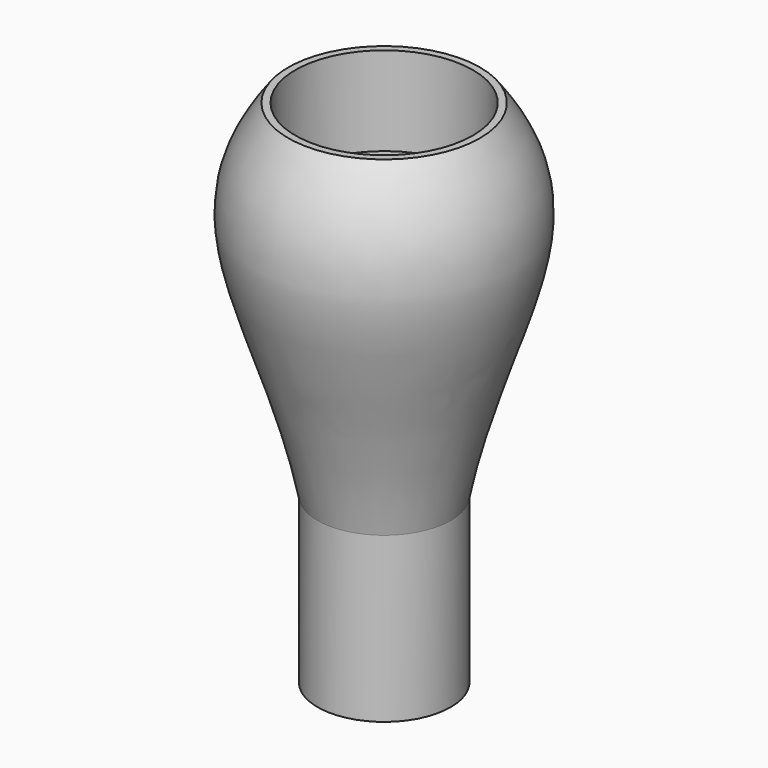
from build123d import *

# Parameters (mm, degrees)
F3_DEPTH = 35


with BuildPart() as f1:
    # F0 (on Front) → F1 (revolve)
    with BuildSketch(Plane.XZ):
        with BuildLine():
            Line((10, 0), (15, 0))
            Line((15, 0), (15, 37))
            add(Edge.make_bspline(
                [(15, 37), (19.0353800747, 58.2166660939), (33.9262575449, 86.7684902948), (28.5537857562, 105.9863269329), (21.6, 115)],
                knots=[0, 0, 0, 0, 0.5797552931, 1, 1, 1, 1], degree=3))
            Line((21.6, 115), (20, 115))
            Line((20, 115), (20, 95))
            Line((20, 95), (0, 95))
            Line((0, 95), (0, 85))
            Line((0, 85), (8, 85))
            Line((8, 85), (8, 13.7968156487))
            Line((8, 13.7968156487), (10, 13.7968156487))
            Line((10, 13.7968156487), (10, 0))
        make_face()
    revolve(axis=Axis((0, 0, 90), (0, 0, 1)))

    # F2 (on face) → F3 (cut)
    with BuildSketch(Plane(origin=(0, 0, 13.7968156487), x_dir=(1, 0, 0), z_dir=(0, 0, -1))):
        with BuildLine():
            Line((-7.5993420768, 2.5), (-9, 2.5))
            Line((-9, 2.5), (-9, -2.5))
            Line((-9, -2.5), (-7.5993420768, -2.5))
            ThreePointArc((-7.5993420768, -2.5), (-8, 0), (-7.5993420768, 2.5))
        make_face()
        with BuildLine():
            Line((9, 2.5), (7.5993420768, 2.5))
            ThreePointArc((7.5993420768, 2.5), (7.8992004853, 1.2659509046), (8, 0))
            ThreePointArc((8, 0), (7.8992004853, -1.2659509046), (7.5993420768, -2.5))
            Line((7.5993420768, -2.5), (9, -2.5))
            Line((9, -2.5), (9, 2.5))
        make_face()
    extrude(amount=-F3_DEPTH, mode=Mode.SUBTRACT)


solid = f1.part
